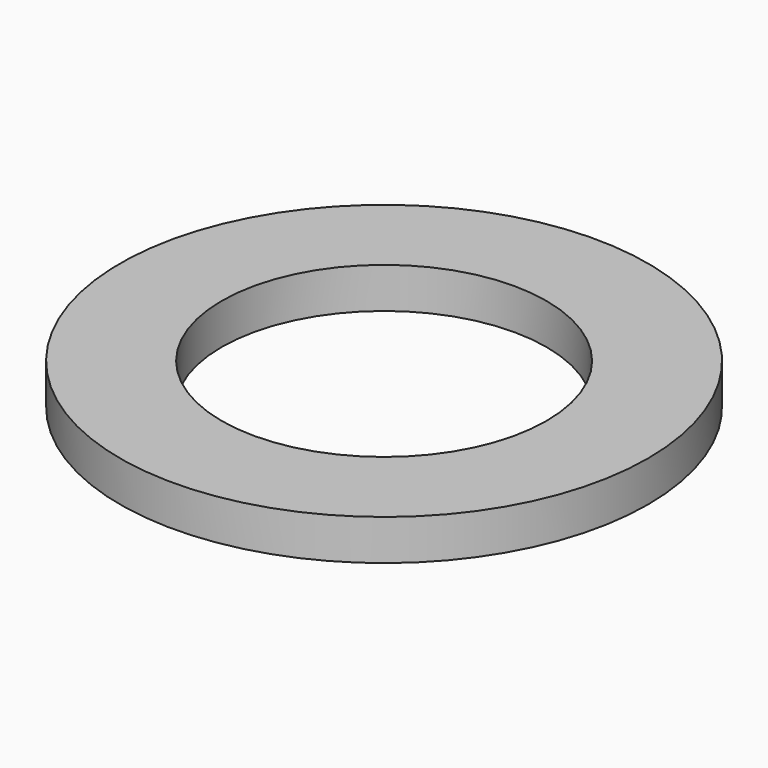
from build123d import *

# Parameters (mm, degrees)
SKETCH_R   = 65
SKETCH_R_2 = 40
PAD_DEPTH  = 10


with BuildPart() as part:
    # Sketch → Pad (new body)
    with BuildSketch(Plane.XY):
        Circle(SKETCH_R)
        Circle(SKETCH_R_2, mode=Mode.SUBTRACT)
    extrude(amount=PAD_DEPTH)


solid = part.part
